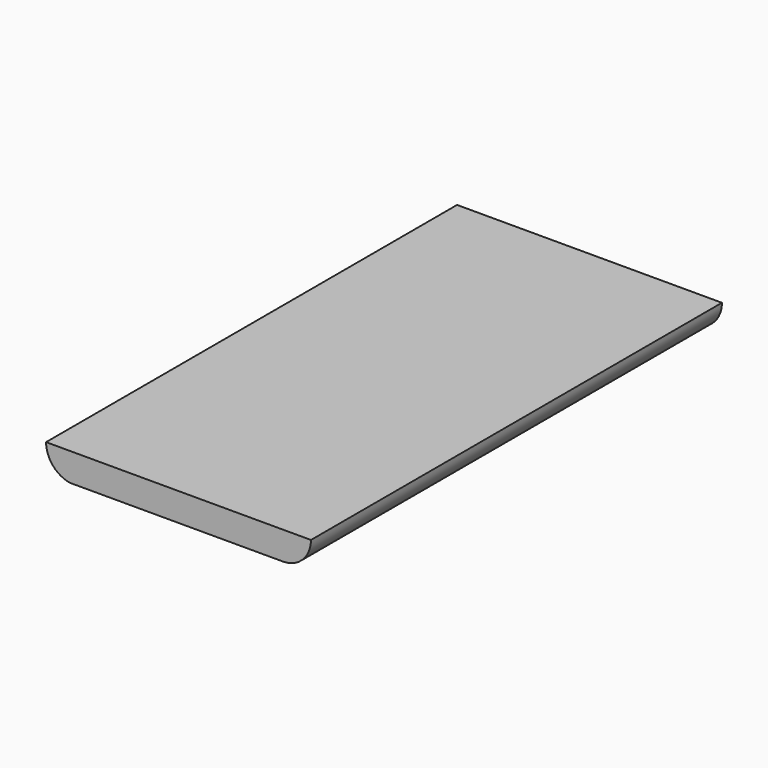
from build123d import *

# Parameters (mm, degrees)
F0_W     = 162.56
F0_H     = 8.89
F1_DEPTH = 83.82
F3_DEPTH = 162.56


with BuildPart() as f1:
    # F0 (on Right) → F1 (new body)
    with BuildSketch(Plane.YZ):
        with Locations((0.643092, 4.445)):
            Rectangle(F0_W, F0_H)
    extrude(amount=F1_DEPTH)

    # F2 (on face) → F3 (cut)
    with BuildSketch(Plane.XZ.offset(80.636908)):
        with BuildLine():
            Line((75.048664, 0), (83.82, 0))
            Line((83.82, 0), (83.82, 8.89))
            ThreePointArc((83.82, 8.89), (81.258041, 2.645634), (75.048664, 0))
        make_face()
        with BuildLine():
            ThreePointArc((74.809731, 0), (74.929197, -0.000803), (75.048664, 0))
            Line((75.048664, 0), (74.809731, 0))
        make_face()
        with BuildLine():
            Line((10.4775, 0), (7.54303, 0))
            ThreePointArc((7.54303, 0), (9.010265, -0.120265), (10.4775, 0))
        make_face()
        with BuildLine():
            ThreePointArc((7.54303, 0), (2.139856, 3.060562), (0, 8.89))
            Line((0, 8.89), (0, 0))
            Line((0, 0), (7.54303, 0))
        make_face()
    extrude(amount=-F3_DEPTH, mode=Mode.SUBTRACT)


solid = f1.part
